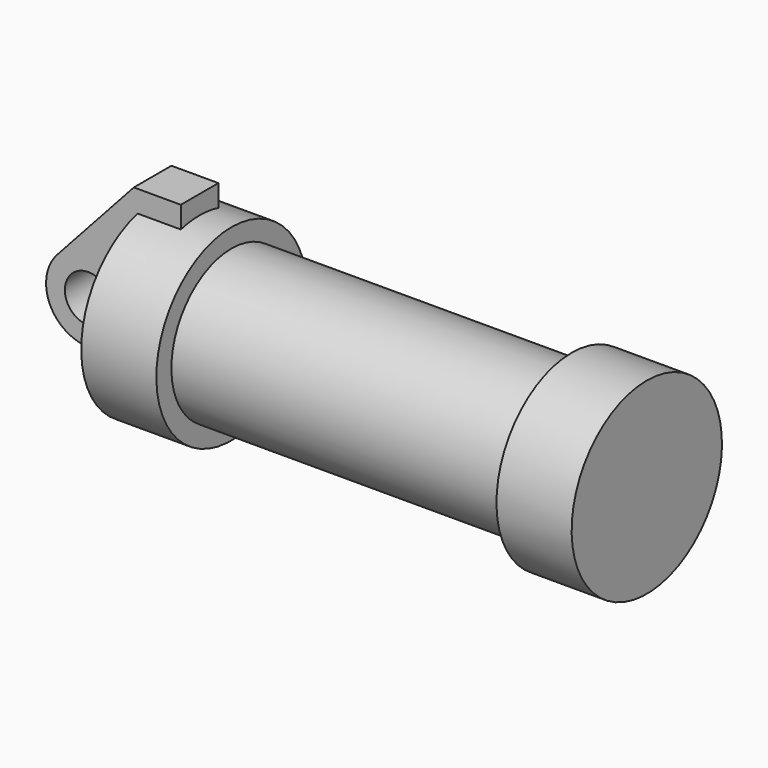
from build123d import *

# Parameters (mm, degrees)
F0_R     = 3.175
F0_W     = 5.842
F0_H     = 12.7
F1_DEPTH = 3.175


with BuildPart() as f1:
    # F0 (on Front) → F1 (new body, symmetric)
    with BuildSketch(Plane.XZ):
        with BuildLine():
            Line((-0.9398, 0), (0, 0))
            Line((0, 0), (0, 12.7))
            Line((0, 12.7), (5.842, 12.7))
            Line((5.842, 12.7), (5.842, 15.24))
            Line((5.842, 15.24), (-0.508, 15.24))
            Line((-0.508, 15.24), (-10.88063, 3.847543))
            ThreePointArc((-10.88063, 3.847543), (-4.591961, 5.329721), (-0.9398, 0))
        make_face()
        with BuildLine():
            ThreePointArc((-8.182663, -5.506983), (-3.195791, -4.549339), (-0.9398, 0))
            ThreePointArc((-0.9398, 0), (-4.591961, 5.329721), (-10.88063, 3.847543))
            ThreePointArc((-10.88063, 3.847543), (-12.145978, -1.583727), (-8.182663, -5.506983))
        make_face()
        with Locations((-6.6548, 0)):
            Circle(F0_R, mode=Mode.SUBTRACT)
        with BuildLine():
            Line((5.842, 0), (0, 0))
            Line((0, 0), (-0.9398, 0))
            ThreePointArc((-0.9398, 0), (-3.195791, -4.549339), (-8.182663, -5.506983))
            Line((-8.182663, -5.506983), (5.842, -9.398))
            Line((5.842, -9.398), (5.842, 0))
        make_face()
        with Locations((2.921, 6.35)):
            Rectangle(F0_W, F0_H)
    extrude(amount=F1_DEPTH, both=True)

    # F0 (on Front) → F2 (revolve)
    with BuildSketch(Plane.XZ):
        Polygon((5.842, 12.7), (5.842, 0), (66.294, 0), (66.294, 12.7), (56.134, 12.7), (56.134, 10.16), (10.16, 10.16), (10.16, 12.7), align=None)
        with Locations((2.921, 6.35)):
            Rectangle(F0_W, F0_H)
    revolve(axis=Axis((33.147, 0, 0), (-1, 0, 0)))


solid = f1.part
